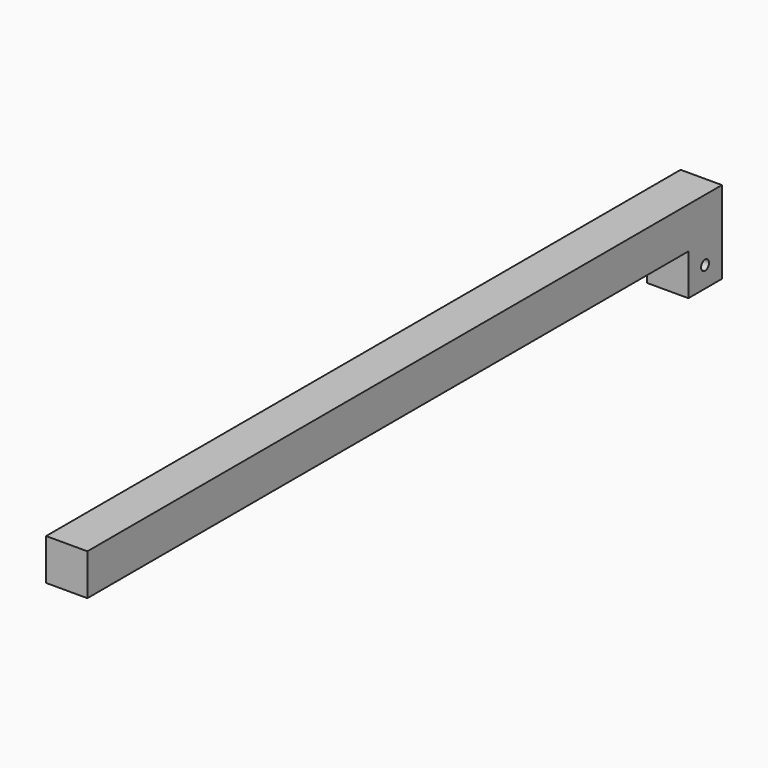
from build123d import *

# Parameters (mm, degrees)
F0_W     = 63.5
F0_H     = 63.5
F1_DEPTH = 1219.2
F2_W     = 63.5
F2_H     = 64.3730163574
F3_DEPTH = 63.5
F5_DEPTH = 76.2


with BuildPart() as f1:
    # F0 (on Front) → F1 (new body)
    with BuildSketch(Plane.XZ):
        with Locations((-86.9832811058, 6.737372756)):
            Rectangle(F0_W, F0_H)
    extrude(amount=F1_DEPTH)

    # F2 (on face) → F3 (join)
    with BuildSketch(Plane(origin=(0, 0, -25.012627244), x_dir=(1, 0, 0), z_dir=(0, 0, -1))):
        with Locations((-86.9832811058, 32.1865081787)):
            Rectangle(F2_W, F2_H)
    extrude(amount=F3_DEPTH)

    # F4 (on face) → F5 (cut)
    with BuildSketch(Plane(origin=(-118.7332811058, 0, 0), x_dir=(0, -1, 0), z_dir=(-1, 0, 0))):
        with BuildLine():
            Line((32.457142012, -49.1428072748), (32.3523825242, -64.3824472132))
            ThreePointArc((32.3523825242, -64.3824472132), (37.7743649699, -62.1692682367), (40.0247622681, -56.762627244))
            ThreePointArc((40.0247622681, -56.762627244), (37.8114032608, -51.3930245421), (32.457142012, -49.1428072748))
        make_face()
        with BuildLine():
            ThreePointArc((32.457142012, -49.1428072748), (24.7849422989, -56.7102475001), (32.3523825242, -64.3824472132))
            Line((32.3523825242, -64.3824472132), (32.457142012, -49.1428072748))
        make_face()
    extrude(amount=-F5_DEPTH, mode=Mode.SUBTRACT)


solid = f1.part
